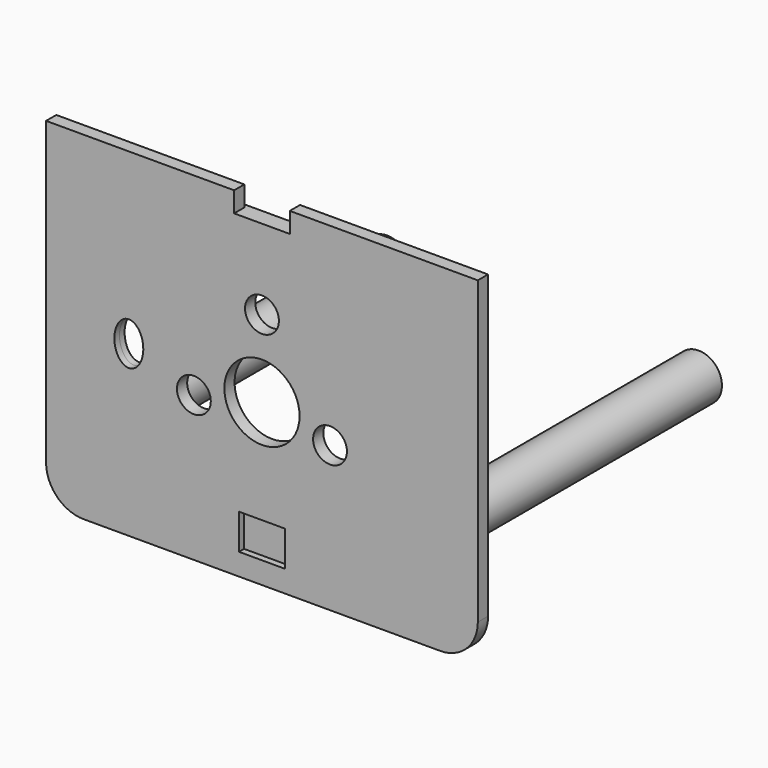
from build123d import *

# Parameters (mm, degrees)
F1_DEPTH = 1.4
F0_R     = 2.25
F0_R_2   = 5
F2_DEPTH = 0.85
F3_W     = 52
F3_H     = 39.4
F3_W_2   = 49.4
F3_H_2   = 37
F4_DEPTH = 1.4
F6_R     = 3.1
F6_R_2   = 2.3
F7_DEPTH = 45
F8_R     = 5
F5_W     = 6.45
F5_H     = 1.1
F9_DEPTH = 0.55


with BuildPart() as f1:
    # F0 (on Front) → F1 (new body)
    with BuildSketch(Plane.XZ):
        Polygon((2.5, -14.9), (-2.5, -14.9), (-3.05, -14.9), (-3.05, -19.6), (3.05, -19.6), (3.05, -14.9), align=None)
    extrude(amount=-F1_DEPTH)

    # F0 (on Front) → F2 (join, symmetric)
    with BuildSketch(Plane.XZ):
        Polygon((-28.7, -22.5), (28.7, -22.5), (28.7, 22.5), (3.7, 22.5), (3.7, 19.8), (-3.7, 19.8), (-3.7, 22.5), (-28.7, 22.5), align=None)
        Polygon((-3.05, -14.9), (-2.5, -14.9), (2.5, -14.9), (3.05, -14.9), (3.05, -19.6), (-3.05, -19.6), align=None, mode=Mode.SUBTRACT)
        with BuildLine():
            add(Edge.make_bspline(
                [(-17.7, -2.85), (-14.3683195671, -2.85), (-16.0341597836, 1.425), (-17.7, 5.7), (-19.3658402164, 1.425), (-21.0316804329, -2.85), (-17.7, -2.85)],
                knots=[0, 0, 0, 2.0943951024, 2.0943951024, 4.1887902048, 4.1887902048, 6.2831853072, 6.2831853072, 6.2831853072], degree=2, weights=[1, 0.5, 1, 0.5, 1, 0.5, 1]))
        make_face(mode=Mode.SUBTRACT)
        with Locations((-9.05, -3.2)):
            Circle(F0_R, mode=Mode.SUBTRACT)
        with Locations((0, -1.1)):
            Circle(F0_R_2, mode=Mode.SUBTRACT)
        with Locations((9.05, -3.2)):
            Circle(F0_R, mode=Mode.SUBTRACT)
        with Locations((0, 9.15)):
            Circle(F0_R, mode=Mode.SUBTRACT)
    extrude(amount=F2_DEPTH, both=True)

    # F3 (on Front) → F4 (join)
    with BuildSketch(Plane.XZ):
        with Locations((0, 0.1)):
            Rectangle(F3_W, F3_H)
        Rectangle(F3_W_2, F3_H_2, mode=Mode.SUBTRACT)
    extrude(amount=-F4_DEPTH)

    # F6 (on face) → F7 (join)
    with BuildSketch(Plane(origin=(0, 0.85, 0), x_dir=(-1, 0, 0), z_dir=(0, 1, 0))):
        with Locations((-20.7, -10.4)):
            Circle(F6_R)
        with Locations((-20.7, -10.4)):
            Circle(F6_R_2, mode=Mode.SUBTRACT)
        with Locations((20.7, -10.4)):
            Circle(F6_R)
        with Locations((20.7, -10.4)):
            Circle(F6_R_2, mode=Mode.SUBTRACT)
    extrude(amount=F7_DEPTH)

    # F8
    f8_edges = [f1.edges().sort_by_distance(p)[0] for p in [
        (28.7, 0, -22.5),
        (-28.7, 0, -22.5),
    ]]
    fillet(f8_edges, radius=F8_R)

    # F5 (on face) → F9 (cut, symmetric)
    with BuildSketch(Plane(origin=(0, 1.4, 0), x_dir=(-1, 0, 0), z_dir=(0, 1, 0))):
        with Locations((-6.275, -19.05)):
            Rectangle(F5_W, F5_H)
        with Locations((6.275, -19.05)):
            Rectangle(F5_W, F5_H)
    extrude(amount=F9_DEPTH, both=True, mode=Mode.SUBTRACT)


solid = f1.part
